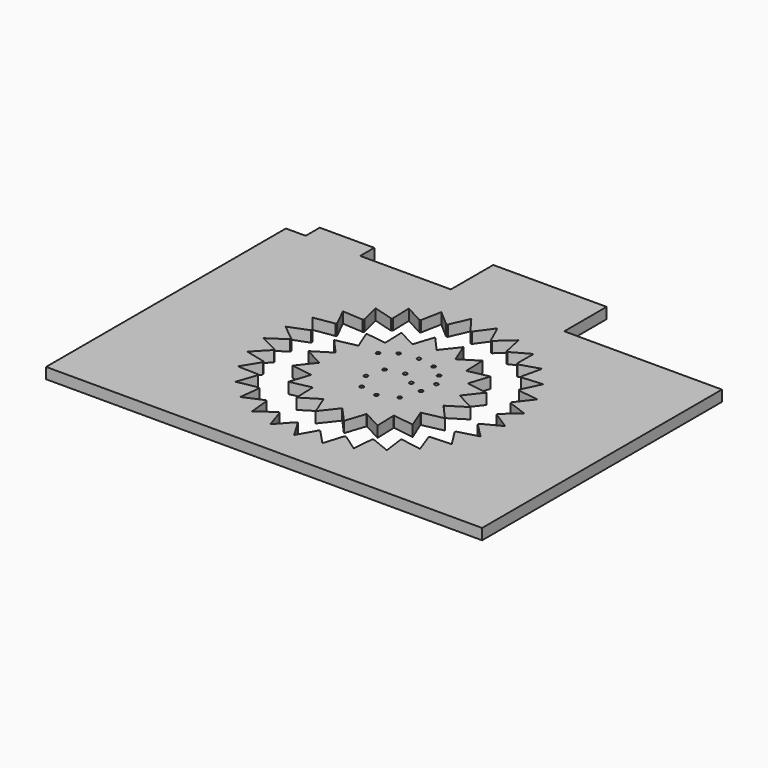
from build123d import *

# Parameters (mm, degrees)
F1_DEPTH = 5.08
F2_R     = 0.875
F3_DEPTH = 5.08


with BuildPart() as f1:
    # F0 (on Top) → F1 (new body)
    with BuildSketch(Plane.XY):
        Polygon((-94.38918, 69.154185), (-103.615791, 69.154185), (-103.615791, -70.545815), (99.584209, -70.545815), (99.584209, 69.154185), (26.098942, 69.154185), (26.098942, 93.835137), (-26.733112, 93.835137), (-26.733112, 69.154185), (-68.98918, 69.154185), (-68.98918, 77.346972), (-94.38918, 77.346972), align=None)
        with BuildLine():
            ThreePointArc((47.822442, 3.228734), (47.842779, 2.911905), (47.861017, 2.594949))
            Line((47.861017, 2.594949), (56.025195, -2.635663))
            Line((56.025195, -2.635663), (47.398462, -7.127164))
            ThreePointArc((47.398462, -7.127164), (47.350215, -7.440957), (47.29989, -7.754423))
            Line((47.29989, -7.754423), (54.148767, -14.617803))
            Line((54.148767, -14.617803), (44.758183, -17.149803))
            ThreePointArc((44.758183, -17.149803), (44.643607, -17.445888), (44.527073, -17.741207))
            Line((44.527073, -17.741207), (49.740404, -25.916432))
            Line((49.740404, -25.916432), (40.025061, -26.370536))
            ThreePointArc((40.025061, -26.370536), (39.849514, -26.635069), (39.67222, -26.898432))
            Line((39.67222, -26.898432), (43.006234, -36.003236))
            Line((43.006234, -36.003236), (33.420411, -34.358213))
            ThreePointArc((33.420411, -34.358213), (33.192102, -34.578823), (32.962337, -34.797916))
            Line((32.962337, -34.797916), (34.261141, -44.40657))
            Line((34.261141, -44.40657), (25.25306, -40.739337))
            ThreePointArc((25.25306, -40.739337), (24.982665, -40.90571), (24.711173, -41.070289))
            Line((24.711173, -41.070289), (23.914034, -50.733501))
            Line((23.914034, -50.733501), (15.904905, -45.215536))
            ThreePointArc((15.904905, -45.215536), (15.605065, -45.319892), (15.304541, -45.42226))
            Line((15.304541, -45.42226), (12.448734, -54.688191))
            Line((12.448734, -54.688191), (5.813053, -47.577506))
            ThreePointArc((5.813053, -47.577506), (5.49779, -47.614966), (5.182286, -47.650337))
            Line((5.182286, -47.650337), (0.401345, -56.085721))
            Line((0.401345, -56.085721), (-4.55061, -47.714805))
            ThreePointArc((-4.55061, -47.714805), (-4.866555, -47.683617), (-5.182286, -47.650337))
            Line((-5.182286, -47.650337), (-11.66481, -54.860746))
            Line((-11.66481, -54.860746), (-14.701492, -45.621013))
            ThreePointArc((-14.701492, -45.621013), (-15.003346, -45.522635), (-15.304541, -45.42226))
            Line((-15.304541, -45.42226), (-23.185532, -51.070542))
            Line((-23.185532, -51.070542), (-24.164949, -41.394032))
            ThreePointArc((-24.164949, -41.394032), (-24.438597, -41.233065), (-24.711173, -41.070289))
            Line((-24.711173, -41.070289), (-33.622124, -44.892338))
            Line((-33.622124, -44.892338), (-32.498479, -35.231513))
            ThreePointArc((-32.498479, -35.231513), (-32.731126, -35.015483), (-32.962337, -34.797916))
            Line((-32.962337, -34.797916), (-42.486583, -36.615017))
            Line((-42.486583, -36.615017), (-39.312416, -27.421608))
            ThreePointArc((-39.312416, -27.421608), (-39.493184, -27.160616), (-39.67222, -26.898432))
            Line((-39.67222, -26.898432), (-49.364417, -26.625619))
            Line((-49.364417, -26.625619), (-44.288149, -18.329498))
            ThreePointArc((-44.288149, -18.329498), (-44.408585, -18.035749), (-44.527073, -17.741207))
            Line((-44.527073, -17.741207), (-53.934025, -15.391236))
            Line((-53.934025, -15.391236), (-47.193017, -8.380322))
            ThreePointArc((-47.193017, -8.380322), (-47.24749, -8.06755), (-47.29989, -7.754423))
            Line((-47.29989, -7.754423), (-55.981738, -3.437176))
            Line((-55.981738, -3.437176), (-47.891192, 1.960709))
            ThreePointArc((-47.891192, 1.960709), (-47.877155, 2.277879), (-47.861017, 2.594949))
            Line((-47.861017, 2.594949), (-55.411808, 8.677602))
            Line((-55.411808, 8.677602), (-46.350028, 12.210059))
            ThreePointArc((-46.350028, 12.210059), (-46.348504, 12.215844), (-46.346979, 12.221628))
            ThreePointArc((-46.346979, 12.221628), (-46.266574, 12.52257), (-46.184215, 12.822984))
            Line((-46.184215, 12.822984), (-52.250883, 20.386625))
            Line((-52.250883, 20.386625), (-42.641589, 21.888481))
            ThreePointArc((-42.641589, 21.888481), (-42.495672, 22.170442), (-42.347891, 22.451431))
            Line((-42.347891, 22.451431), (-46.646764, 31.142392))
            Line((-46.646764, 31.142392), (-36.939276, 30.543421))
            ThreePointArc((-36.939276, 30.543421), (-36.736157, 30.787423), (-36.531427, 31.030074))
            Line((-36.531427, 31.030074), (-38.861495, 40.441976))
            Line((-38.861495, 40.441976), (-29.509723, 37.770185))
            ThreePointArc((-29.509723, 37.770185), (-29.2589, 37.964818), (-29.006794, 38.157785))
            Line((-29.006794, 38.157785), (-29.259106, 47.850538))
            Line((-29.259106, 47.850538), (-20.700329, 43.230858))
            ThreePointArc((-20.700329, 43.230858), (-20.41353, 43.36702), (-20.125836, 43.501281))
            Line((-20.125836, 43.501281), (-18.288593, 53.021661))
            Line((-18.288593, 53.021661), (-10.92301, 46.670103))
            ThreePointArc((-10.92301, 46.670103), (-10.613645, 46.741429), (-10.303815, 46.810705))
            Line((-10.303815, 46.810705), (-6.462926, 55.713551))
            Line((-6.462926, 55.713551), (-0.634944, 47.927106))
            ThreePointArc((-0.634944, 47.927106), (-0.317479, 47.930261), (0, 47.931312))
            Line((0, 47.931312), (5.66494, 55.800337))
            Line((5.66494, 55.800337), (9.682812, 46.943091))
            ThreePointArc((9.682812, 46.943091), (9.993533, 46.877926), (10.303815, 46.810705))
            Line((10.303815, 46.810705), (17.52792, 53.277962))
            Line((17.52792, 53.277962), (19.54781, 43.764069))
            ThreePointArc((19.54781, 43.764069), (19.837258, 43.633632), (20.125836, 43.501281))
            Line((20.125836, 43.501281), (28.571314, 48.264368))
            Line((28.571314, 48.264368), (28.498775, 38.538688))
            ThreePointArc((28.498775, 38.538688), (28.753415, 38.349078), (29.006794, 38.157785))
            Line((29.006794, 38.157785), (38.278745, 40.993986))
            Line((38.278745, 40.993986), (36.117168, 31.511281))
            ThreePointArc((36.117168, 31.511281), (36.325094, 31.271364), (36.531427, 31.030074))
            Line((36.531427, 31.030074), (46.196305, 31.80677))
            Line((46.196305, 31.80677), (42.046763, 23.010441))
            ThreePointArc((42.046763, 23.010441), (42.198253, 22.731435), (42.347891, 22.451431))
            Line((42.347891, 22.451431), (51.953776, 21.132306))
            Line((51.953776, 21.132306), (46.010297, 13.433659))
            ThreePointArc((46.010297, 13.433659), (46.098268, 13.12861), (46.184215, 12.822984))
            Line((46.184215, 12.822984), (55.281947, 9.469718))
            Line((55.281947, 9.469718), (47.822442, 3.228734))
        make_face(mode=Mode.SUBTRACT)
    extrude(amount=F1_DEPTH)


with BuildPart() as f3:
    # F2 (on Top) → F3 (new body)
    with BuildSketch(Plane.XY):
        with BuildLine():
            ThreePointArc((28.512455, -3.972746), (28.718952, -1.991141), (28.787894, 0))
            ThreePointArc((28.787894, 0), (28.639111, 2.923038), (28.1943, 5.815862))
            ThreePointArc((28.1943, 5.815862), (28.173184, 5.917306), (28.151703, 6.018674))
            ThreePointArc((28.151703, 6.018674), (26.717641, 10.719631), (24.504834, 15.108141))
            ThreePointArc((24.504834, 15.108141), (24.450295, 15.196246), (24.39544, 15.284153))
            ThreePointArc((24.39544, 15.284153), (21.44004, 19.21113), (17.859723, 22.578156))
            ThreePointArc((17.859723, 22.578156), (17.77834, 22.642293), (17.696727, 22.706138))
            ThreePointArc((17.696727, 22.706138), (13.576454, 25.385482), (9.060466, 27.324911))
            ThreePointArc((9.060466, 27.324911), (8.962054, 27.357346), (8.863527, 27.389427))
            ThreePointArc((8.863527, 27.389427), (4.075347, 28.497971), (-0.831617, 28.775879))
            ThreePointArc((-0.831617, 28.775879), (-0.935187, 28.7727), (-1.038745, 28.769147))
            ThreePointArc((-1.038745, 28.769147), (-5.917306, 28.173184), (-10.623395, 26.756052))
            ThreePointArc((-10.623395, 26.756052), (-10.719631, 26.717641), (-10.815729, 26.678884))
            ThreePointArc((-10.815729, 26.678884), (-15.196246, 24.450295), (-19.133835, 21.509049))
            ThreePointArc((-19.133835, 21.509049), (-19.21113, 21.44004), (-19.288176, 21.370753))
            ThreePointArc((-19.288176, 21.370753), (-22.642293, 17.77834), (-25.336451, 13.667738))
            ThreePointArc((-25.336451, 13.667738), (-25.385482, 13.576454), (-25.434185, 13.484994))
            ThreePointArc((-25.434185, 13.484994), (-27.357346, 8.962054), (-28.483118, 4.177896))
            ThreePointArc((-28.483118, 4.177896), (-28.497971, 4.075347), (-28.512455, 3.972746))
            ThreePointArc((-28.512455, 3.972746), (-28.7727, -0.935187), (-28.1943, -5.815862))
            ThreePointArc((-28.1943, -5.815862), (-28.173184, -5.917306), (-28.151703, -6.018674))
            ThreePointArc((-28.151703, -6.018674), (-26.717641, -10.719631), (-24.504834, -15.108141))
            ThreePointArc((-24.504834, -15.108141), (-24.450295, -15.196246), (-24.39544, -15.284153))
            ThreePointArc((-24.39544, -15.284153), (-21.44004, -19.21113), (-17.859723, -22.578156))
            ThreePointArc((-17.859723, -22.578156), (-17.77834, -22.642293), (-17.696727, -22.706138))
            ThreePointArc((-17.696727, -22.706138), (-13.576454, -25.385482), (-9.060466, -27.324911))
            ThreePointArc((-9.060466, -27.324911), (-8.962054, -27.357346), (-8.863527, -27.389427))
            ThreePointArc((-8.863527, -27.389427), (-4.075347, -28.497971), (0.831617, -28.775879))
            ThreePointArc((0.831617, -28.775879), (0.935187, -28.7727), (1.038745, -28.769147))
            ThreePointArc((1.038745, -28.769147), (5.917306, -28.173184), (10.623395, -26.756052))
            ThreePointArc((10.623395, -26.756052), (10.719631, -26.717641), (10.815729, -26.678884))
            ThreePointArc((10.815729, -26.678884), (15.196246, -24.450295), (19.133835, -21.509049))
            ThreePointArc((19.133835, -21.509049), (19.21113, -21.44004), (19.288176, -21.370753))
            ThreePointArc((19.288176, -21.370753), (22.642293, -17.77834), (25.336451, -13.667738))
            ThreePointArc((25.336451, -13.667738), (25.385482, -13.576454), (25.434185, -13.484994))
            ThreePointArc((25.434185, -13.484994), (27.357346, -8.962054), (28.483118, -4.177896))
            ThreePointArc((28.483118, -4.177896), (28.497971, -4.075347), (28.512455, -3.972746))
        make_face()
        with Locations((-4.183754, -10.947716)):
            Circle(F2_R, mode=Mode.SUBTRACT)
        with Locations((-8.303081, -3.342805)):
            Circle(F2_R, mode=Mode.SUBTRACT)
        with Locations((4.0549, -12.690508)):
            Circle(F2_R, mode=Mode.SUBTRACT)
        with Locations((11.999062, -8.963397)):
            Circle(F2_R, mode=Mode.SUBTRACT)
        with Locations((14.819307, -0.159523)):
            Circle(F2_R, mode=Mode.SUBTRACT)
        with Locations((-6.08498, 4.737413)):
            Circle(F2_R, mode=Mode.SUBTRACT)
        with Locations((-16.031201, 13.405398)):
            Circle(F2_R, mode=Mode.SUBTRACT)
        with Locations((-10.060021, 17.877324)):
            Circle(F2_R, mode=Mode.SUBTRACT)
        with Locations((-1.643324, 19.265645)):
            Circle(F2_R, mode=Mode.SUBTRACT)
        with Locations((8.033741, 2.71242)):
            Circle(F2_R, mode=Mode.SUBTRACT)
        with Locations((1.798884, 6.904724)):
            Circle(F2_R, mode=Mode.SUBTRACT)
        with Locations((15.816592, 7.537753)):
            Circle(F2_R, mode=Mode.SUBTRACT)
        with Locations((6.353278, 17.724563)):
            Circle(F2_R, mode=Mode.SUBTRACT)
        with Locations((12.335164, 13.443123)):
            Circle(F2_R, mode=Mode.SUBTRACT)
        with BuildLine():
            ThreePointArc((28.1943, 5.815862), (28.639111, 2.923038), (28.787894, 0))
            ThreePointArc((28.787894, 0), (28.718952, -1.991141), (28.512455, -3.972746))
            Line((28.512455, -3.972746), (36.813503, 1.196534))
            Line((36.813503, 1.196534), (28.1943, 5.815862))
        make_face()
        with BuildLine():
            ThreePointArc((24.504834, 15.108141), (26.717641, 10.719631), (28.151703, 6.018674))
            Line((28.151703, 6.018674), (34.184138, 13.715334))
            Line((34.184138, 13.715334), (24.504834, 15.108141))
        make_face()
        with BuildLine():
            Line((35.002616, -11.466585), (28.483118, -4.177896))
            ThreePointArc((28.483118, -4.177896), (27.357346, -8.962054), (25.434185, -13.484994))
            Line((25.434185, -13.484994), (35.002616, -11.466585))
        make_face()
        with BuildLine():
            ThreePointArc((17.859723, 22.578156), (21.44004, 19.21113), (24.39544, 15.284153))
            Line((24.39544, 15.284153), (27.431662, 24.579862))
            Line((27.431662, 24.579862), (17.859723, 22.578156))
        make_face()
        with BuildLine():
            Line((28.969896, -22.746665), (25.336451, -13.667738))
            ThreePointArc((25.336451, -13.667738), (22.642293, -17.77834), (19.288176, -21.370753))
            Line((19.288176, -21.370753), (28.969896, -22.746665))
        make_face()
        with BuildLine():
            ThreePointArc((9.060466, 27.324911), (13.576454, 25.385482), (17.696727, 22.706138))
            Line((17.696727, 22.706138), (17.370522, 32.479696))
            Line((17.370522, 32.479696), (9.060466, 27.324911))
        make_face()
        with BuildLine():
            Line((19.44298, -31.283161), (19.133835, -21.509049))
            ThreePointArc((19.133835, -21.509049), (15.196246, -24.450295), (10.815729, -26.678884))
            Line((10.815729, -26.678884), (19.44298, -31.283161))
        make_face()
        with BuildLine():
            ThreePointArc((-0.831617, 28.775879), (4.075347, 28.497971), (8.863527, 27.389427))
            Line((8.863527, 27.389427), (5.214242, 36.461999))
            Line((5.214242, 36.461999), (-0.831617, 28.775879))
        make_face()
        with BuildLine():
            Line((7.570954, -36.046447), (10.623395, -26.756052))
            ThreePointArc((10.623395, -26.756052), (5.917306, -28.173184), (1.038745, -28.769147))
            Line((1.038745, -28.769147), (7.570954, -36.046447))
        make_face()
        with BuildLine():
            ThreePointArc((-10.623395, 26.756052), (-5.917306, 28.173184), (-1.038745, 28.769147))
            Line((-1.038745, 28.769147), (-7.570954, 36.046447))
            Line((-7.570954, 36.046447), (-10.623395, 26.756052))
        make_face()
        with BuildLine():
            Line((-5.214242, -36.461999), (0.831617, -28.775879))
            ThreePointArc((0.831617, -28.775879), (-4.075347, -28.497971), (-8.863527, -27.389427))
            Line((-8.863527, -27.389427), (-5.214242, -36.461999))
        make_face()
        with BuildLine():
            ThreePointArc((-19.133835, 21.509049), (-15.196246, 24.450295), (-10.815729, 26.678884))
            Line((-10.815729, 26.678884), (-19.44298, 31.283161))
            Line((-19.44298, 31.283161), (-19.133835, 21.509049))
        make_face()
        with BuildLine():
            Line((-17.370522, -32.479696), (-9.060466, -27.324911))
            ThreePointArc((-9.060466, -27.324911), (-13.576454, -25.385482), (-17.696727, -22.706138))
            Line((-17.696727, -22.706138), (-17.370522, -32.479696))
        make_face()
        with BuildLine():
            ThreePointArc((-25.336451, 13.667738), (-22.642293, 17.77834), (-19.288176, 21.370753))
            Line((-19.288176, 21.370753), (-28.969896, 22.746665))
            Line((-28.969896, 22.746665), (-25.336451, 13.667738))
        make_face()
        with BuildLine():
            Line((-27.431662, -24.579862), (-17.859723, -22.578156))
            ThreePointArc((-17.859723, -22.578156), (-21.44004, -19.21113), (-24.39544, -15.284153))
            Line((-24.39544, -15.284153), (-27.431662, -24.579862))
        make_face()
        with BuildLine():
            ThreePointArc((-28.483118, 4.177896), (-27.357346, 8.962054), (-25.434185, 13.484994))
            Line((-25.434185, 13.484994), (-35.002616, 11.466585))
            Line((-35.002616, 11.466585), (-28.483118, 4.177896))
        make_face()
        with BuildLine():
            Line((-34.184138, -13.715334), (-24.504834, -15.108141))
            ThreePointArc((-24.504834, -15.108141), (-26.717641, -10.719631), (-28.151703, -6.018674))
            Line((-28.151703, -6.018674), (-34.184138, -13.715334))
        make_face()
        with BuildLine():
            ThreePointArc((-28.1943, -5.815862), (-28.7727, -0.935187), (-28.512455, 3.972746))
            Line((-28.512455, 3.972746), (-36.813503, -1.196534))
            Line((-36.813503, -1.196534), (-28.1943, -5.815862))
        make_face()
    extrude(amount=F3_DEPTH)


solid = Compound([f1.part, f3.part])
